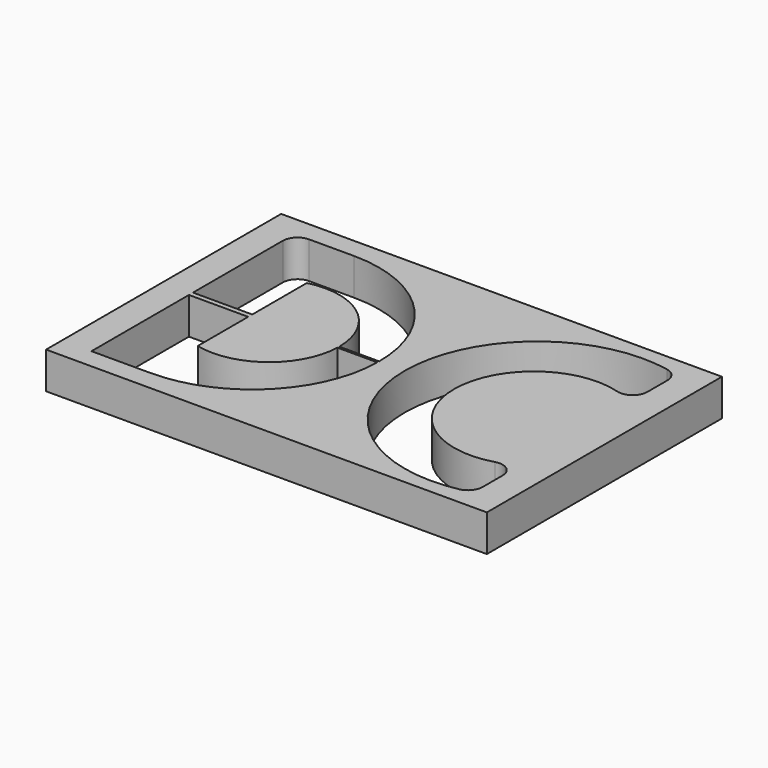
from build123d import *

# Parameters (mm, degrees)
F0_W     = 60
F0_H     = 40
F0_W_2   = 8.0685107261
F0_H_2   = 0.6935700076
F1_DEPTH = 5


with BuildPart() as f1:
    # F0 (on Top) → F1 (new body)
    with BuildSketch(Plane.XY):
        Rectangle(F0_W, F0_H)
        with BuildLine():
            ThreePointArc((-26, 15.2763448209), (-25.4142135624, 16.6905583832), (-24, 17.2763448209))
            Line((-24, 17.2763448209), (-17.9314892739, 17.2763448209))
            ThreePointArc((-17.9314892739, 17.2763448209), (-5.715268697, 12.2162205769), (-0.655144453, 0))
            ThreePointArc((-0.655144453, 0), (-0.655851672, -0.1563195998), (-0.657973271, -0.3126264014))
            ThreePointArc((-0.657973271, -0.3126264014), (-5.8263034253, -12.3262551467), (-17.9314892739, -17.2763448209))
            Line((-17.9314892739, -17.2763448209), (-26, -17.2763448209))
            Line((-26, -17.2763448209), (-26, -0.6935700076))
            Line((-26, -0.6935700076), (-26, 0))
            Line((-26, 0), (-26, 15.2763448209))
        make_face(mode=Mode.SUBTRACT)
        with BuildLine():
            ThreePointArc((24.3935218324, -17.6762643484), (2.8174802449, 0), (24.3935218324, 17.6762643484))
            ThreePointArc((24.3935218324, 17.6762643484), (25.5471011061, 16.9828305483), (26, 15.7153613504))
            Line((26, 15.7153613504), (26, 12.3233801185))
            ThreePointArc((26, 12.3233801185), (25.1989439805, 10.7225886481), (23.4374666684, 10.404120821))
            ThreePointArc((23.4374666684, 10.404120821), (9.5462189227, 0), (23.4374666684, -10.404120821))
            ThreePointArc((23.4374666684, -10.404120821), (25.1989439805, -10.7225886481), (26, -12.3233801185))
            Line((26, -12.3233801185), (26, -15.7153613504))
            ThreePointArc((26, -15.7153613504), (25.5471011061, -16.9828305483), (24.3935218324, -17.6762643484))
        make_face(mode=Mode.SUBTRACT)
        with BuildLine():
            ThreePointArc((-6.0930861142, 0), (-9.7541852385, 7.5199461868), (-17.9314892739, 9.2763448209))
            Line((-17.9314892739, 9.2763448209), (-17.9314892739, 0))
            Line((-17.9314892739, 0), (-17.9314892739, -0.6935700076))
            Line((-17.9314892739, -0.6935700076), (-17.9314892739, -9.2763448209))
            ThreePointArc((-17.9314892739, -9.2763448209), (-9.8780300644, -7.6153634638), (-6.0982025942, -0.3126264014))
            ThreePointArc((-6.0982025942, -0.3126264014), (-6.0943653199, -0.1563341335), (-6.0930861142, 0))
        make_face()
        with BuildLine():
            ThreePointArc((-0.657973271, -0.3126264014), (-0.655851672, -0.1563195998), (-0.655144453, 0))
            Line((-0.655144453, 0), (-6.0930861142, 0))
            ThreePointArc((-6.0930861142, 0), (-6.0943653199, -0.1563341335), (-6.0982025942, -0.3126264014))
            Line((-6.0982025942, -0.3126264014), (-0.657973271, -0.3126264014))
        make_face()
        with Locations((-21.965744637, -0.3467850038)):
            Rectangle(F0_W_2, F0_H_2)
    extrude(amount=F1_DEPTH)


solid = f1.part
